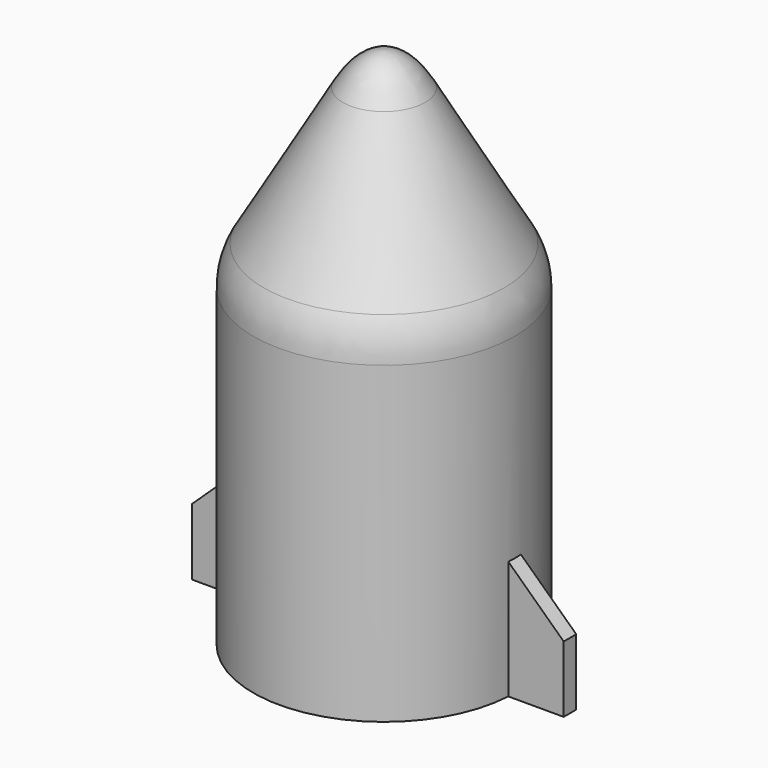
from build123d import *

# Parameters (mm, degrees)
PAD_DEPTH = 1.5


with BuildPart() as part:
    # Sketch → Revolution (revolve)
    with BuildSketch(Plane.XZ):
        with BuildLine():
            Line((0, 0), (0, 100))
            add(Edge.make_bspline(
                [(7.831253, 93.75638), (4.226497, 100), (0, 100)],
                knots=[2.592301, 2.592301, 2.592301, 3.141593, 3.141593, 3.141593], degree=2, weights=[1, 0.962521, 1]))
            Line((7.831253, 93.75638), (22.990381, 67.5))
            ThreePointArc((22.990381, 67.5), (24.488887, 63.882286), (25, 60))
            Line((25, 60), (25, 0))
            Line((25, 0), (0, 0))
        make_face()
    revolve(axis=Axis((0, 0, 0), (0, 0, 1)))

    # Sketch001 → Pad (new body, symmetric)
    with BuildSketch(Plane(origin=(24, 0, 0), x_dir=(1, 0, 0), z_dir=(0, -1, 0))):
        Polygon((0, 23.592846), (11.547151, 12.692001), (11.547151, 0), (0, 0), align=None)
    pad = extrude(amount=PAD_DEPTH, both=True)

    # Mirrored: Pad across YZ
    add(pad.mirror(Plane.YZ))


solid = part.part
